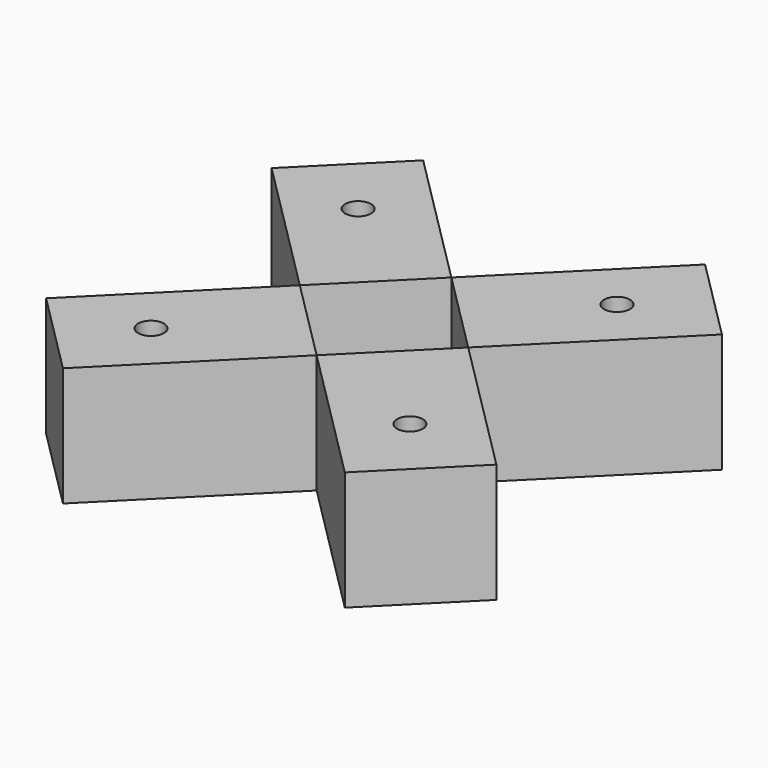
from build123d import *

# Parameters (mm, degrees)
F0_R     = 5
F1_DEPTH = 46


with BuildPart() as f1:
    # F0 (on Top) → F1 (new body)
    with BuildSketch(Plane.XY):
        Polygon((86.974134, 54.447222), (70.710678, 70.710678), (54.447222, 86.974134), (0, 32.526912), (16.263456, 16.263456), (32.526912, 0), align=None)
        with Locations((50, 50)):
            Circle(F0_R, mode=Mode.SUBTRACT)
        Polygon((0, -32.526912), (-16.263456, -16.263456), (-32.526912, 0), (-86.974134, -54.447222), (-70.710678, -70.710678), (-54.447222, -86.974134), align=None)
        with Locations((-50, -50)):
            Circle(F0_R, mode=Mode.SUBTRACT)
    extrude(amount=F1_DEPTH)


with BuildPart() as f2_1:
    # F2: instance of F1
    add(f1.part.mirror(Plane.YZ))


solid = Compound([f1.part, f2_1.part])
